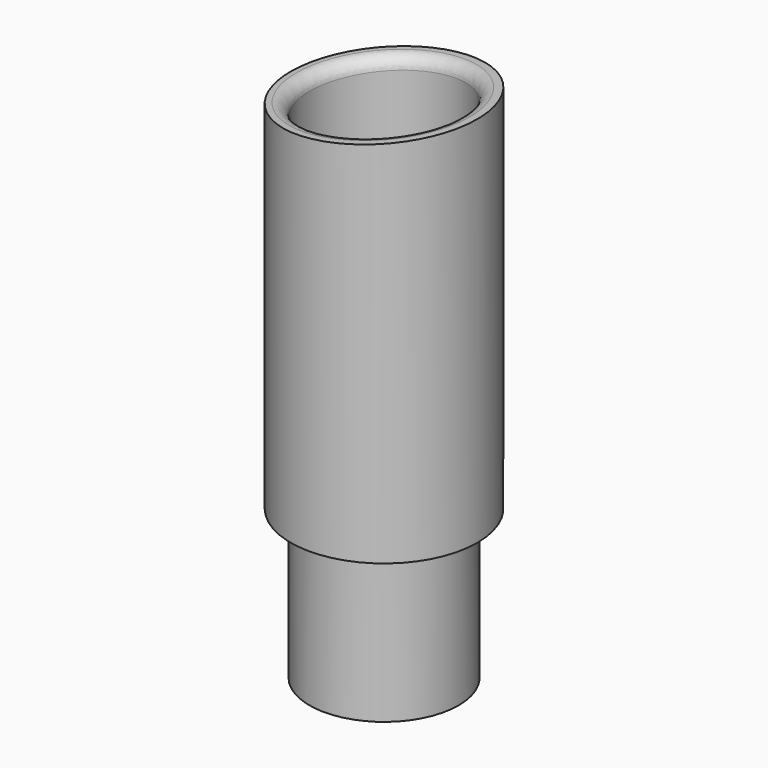
from build123d import *

# Parameters (mm, degrees)
F0_R      = 15.875
F0_R_2    = 12.7
F1_DEPTH  = 76.2
F2_DEPTH  = 3.175
F4_DEPTH  = 19.05
F5_R      = 2.032
F2_FACE_R = 15.875
F6_DEPTH  = 12.7
F7_DEPTH  = 12.7


with BuildPart() as f1:
    # F0 (on Top) → F1 (new body)
    with BuildSketch(Plane.XY):
        Circle(F0_R)
        Circle(F0_R_2, mode=Mode.SUBTRACT)
    extrude(amount=F1_DEPTH)

    # F0 (on Top) → F2 (join)
    with BuildSketch(Plane.XY):
        Circle(F0_R_2)
    extrude(amount=F2_DEPTH)

    # F3 (on Front) → F4 (cut, symmetric)
    with BuildSketch(Plane.XZ):
        Polygon((-15.875, 73.025), (15.875, 76.2), (-15.875, 76.2), align=None)
    extrude(amount=F4_DEPTH, both=True, mode=Mode.SUBTRACT)

    # F5
    f5_edges = [f1.edges().sort_by_distance(p)[0] for p in [
        (-12.7, 0, 73.3425),
    ]]
    fillet(f5_edges, radius=F5_R)

    # F2_face (on face) → F6 (cut)
    with BuildSketch(Plane(origin=(0, 0, 0), x_dir=(1, 0, 0), z_dir=(0, 0, -1))):
        Circle(F2_FACE_R)
    extrude(amount=-F6_DEPTH, mode=Mode.SUBTRACT)

    # F0 (on Top) → F7 (join, symmetric)
    with BuildSketch(Plane.XY):
        Circle(F0_R_2)
    extrude(amount=F7_DEPTH, both=True)


solid = f1.part
